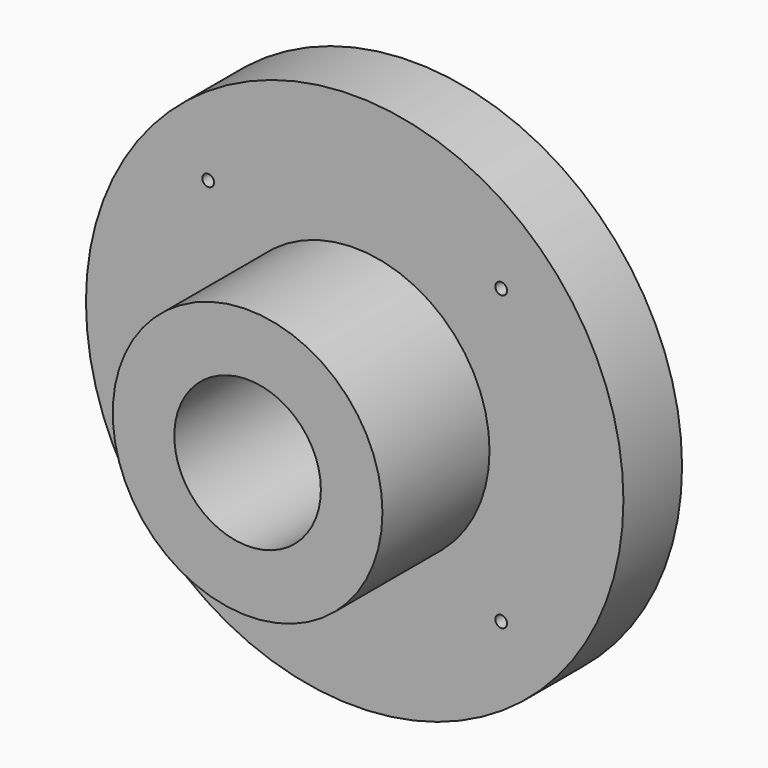
from build123d import *

# Parameters (mm, degrees)
F0_R     = 27.5
F0_R_2   = 0.6
F0_R_3   = 13.8
F1_DEPTH = 7.5
F0_R_4   = 7.5
F2_DEPTH = 21.2


with BuildPart() as f1:
    # F0 (on Front) → F1 (new body)
    with BuildSketch(Plane.XZ):
        Circle(F0_R)
        with Locations((-14.990664, -14.990664)):
            Circle(F0_R_2, mode=Mode.SUBTRACT)
        with Locations((14.990664, -14.990664)):
            Circle(F0_R_2, mode=Mode.SUBTRACT)
        with Locations((-14.990664, 14.990664)):
            Circle(F0_R_2, mode=Mode.SUBTRACT)
        Circle(F0_R_3, mode=Mode.SUBTRACT)
        with Locations((14.990664, 14.990664)):
            Circle(F0_R_2, mode=Mode.SUBTRACT)
    extrude(amount=F1_DEPTH)

    # F0 (on Front) → F2 (join)
    with BuildSketch(Plane.XZ):
        Circle(F0_R_3)
        Circle(F0_R_4, mode=Mode.SUBTRACT)
    extrude(amount=F2_DEPTH)


solid = f1.part
